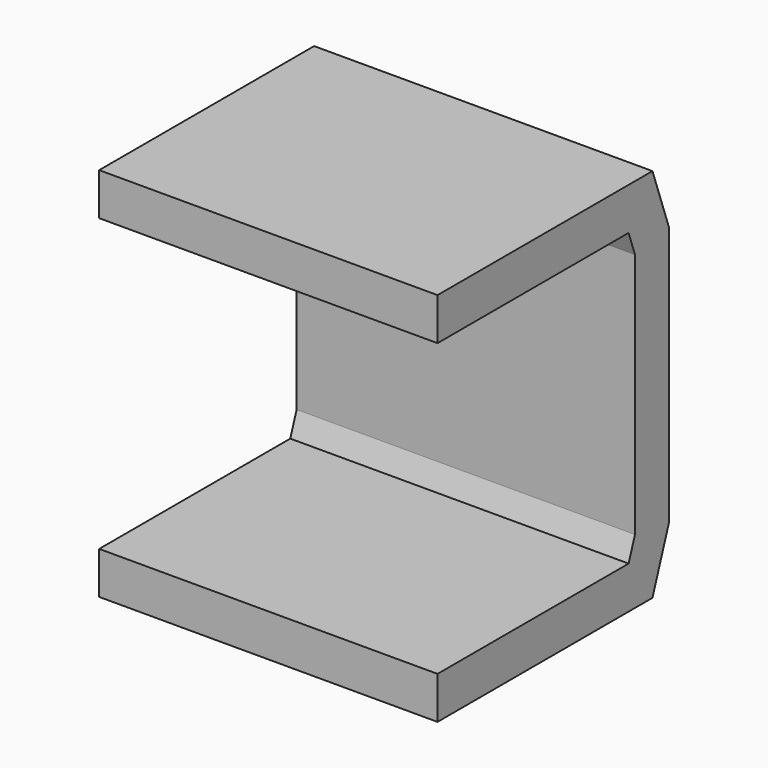
from build123d import *

# Parameters (mm, degrees)
F0_W = 200
F0_H = 25


with BuildPart() as f2:
    # F2: sweep along a path in F1
    with BuildLine(Plane.YZ) as f2_path:
        Line((0, 0), (150, 0))
        Line((150, 0), (158.4033096068, 23.5453687092))
        Line((158.4033096068, 23.5453687092), (158.4033096068, 173.5453687092))
        Line((158.4033096068, 173.5453687092), (150, 197.0907374184))
        Line((150, 197.0907374184), (0, 197.0907374184))
    # F0 (on Front) → F2 (sweep)
    with BuildSketch(Plane.XZ):
        Rectangle(F0_W, F0_H)
    sweep(path=f2_path.line, transition=Transition.RIGHT)


solid = f2.part
